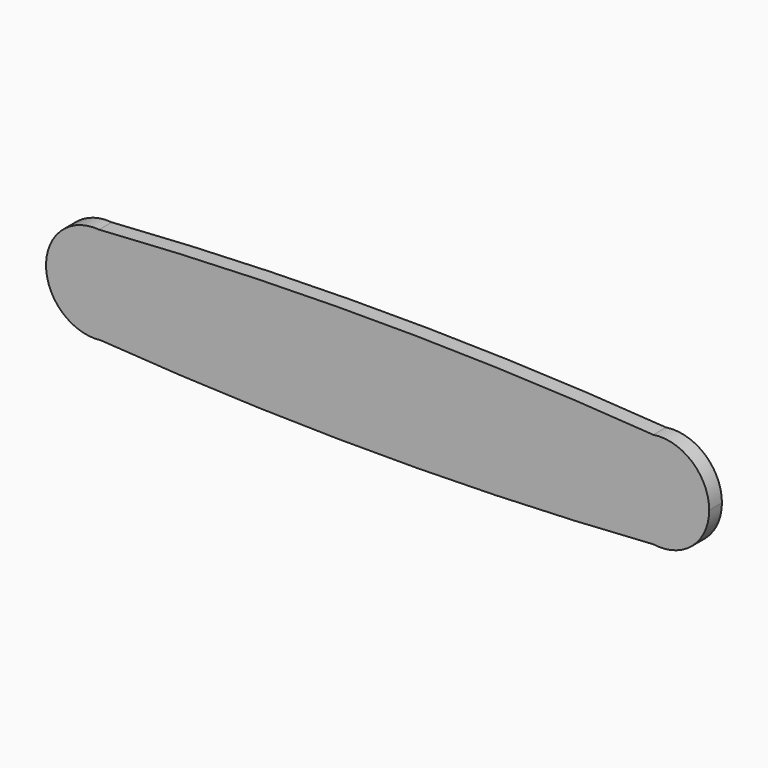
from build123d import *

# Parameters (mm, degrees)
F1_DEPTH = 20


with BuildPart() as f1:
    # F0 (on Front) → F1 (new body)
    with BuildSketch(Plane.XZ):
        with BuildLine():
            ThreePointArc((-45.049408, 60.931099), (-5.26653, 41.331444), (10.812513, 0))
            Line((10.812513, 0), (598.490313, 0))
            ThreePointArc((598.490313, 0), (613.336357, 39.944909), (650.667131, 60.497627))
            ThreePointArc((650.667131, 60.497627), (302.816644, 73.205231), (-45.049408, 60.931099))
        make_face()
        with BuildLine():
            ThreePointArc((-42.745185, -60.686641), (-4.491676, -40.470037), (10.812513, 0))
            ThreePointArc((10.812513, 0), (-5.26653, 41.331444), (-45.049408, 60.931099))
            ThreePointArc((-45.049408, 60.931099), (-111.498713, -1.158577), (-42.745185, -60.686641))
        make_face()
        with BuildLine():
            Line((598.490313, 0), (10.812513, 0))
            ThreePointArc((10.812513, 0), (-4.491676, -40.470037), (-42.745185, -60.686641))
            ThreePointArc((-42.745185, -60.686641), (303.954256, -72.998054), (650.646825, -60.494608))
            ThreePointArc((650.646825, -60.494608), (613.329654, -39.937136), (598.490313, 0))
        make_face()
        with BuildLine():
            ThreePointArc((650.667131, 60.497627), (613.336357, 39.944909), (598.490313, 0))
            ThreePointArc((598.490313, 0), (613.329654, -39.937136), (650.646825, -60.494608))
            ThreePointArc((650.646825, -60.494608), (699.588549, -46.321759), (720.812513, 0))
            ThreePointArc((720.812513, 0), (699.596322, 46.315055), (650.667131, 60.497627))
        make_face()
    extrude(amount=F1_DEPTH)


solid = f1.part
